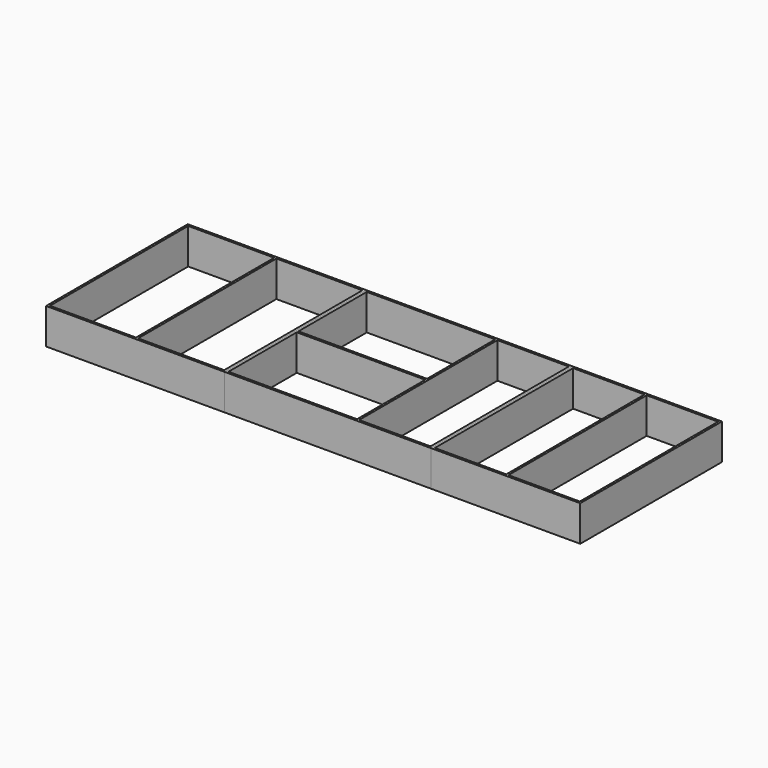
from build123d import *

# Parameters (mm, degrees)
F0_W     = 100
F0_H     = 242
F1_DEPTH = 50
F0_W_2   = 180
F0_H_2   = 119.5
F2_DEPTH = 50
F0_W_3   = 120.5
F3_DEPTH = 50


with BuildPart() as f1:
    # F0 (on Top) → F1 (new body)
    with BuildSketch(Plane.XY):
        Polygon((539, 3), (539, 0), (748, 0), (748, 248), (539, 248), (539, 245), align=None)
        with Locations((592, 124)):
            Rectangle(F0_W, F0_H, mode=Mode.SUBTRACT)
        with Locations((695, 124)):
            Rectangle(F0_W, F0_H, mode=Mode.SUBTRACT)
    extrude(amount=F1_DEPTH)


with BuildPart() as f2:
    # F0 (on Top) → F2 (new body)
    with BuildSketch(Plane.XY):
        Polygon((250, 3), (250, 0), (539, 0), (539, 3), (539, 245), (539, 248), (250, 248), (250, 245), align=None)
        with Locations((343, 62.75)):
            Rectangle(F0_W_2, F0_H_2, mode=Mode.SUBTRACT)
        with Locations((343, 185.25)):
            Rectangle(F0_W_2, F0_H_2, mode=Mode.SUBTRACT)
        with Locations((486, 124)):
            Rectangle(F0_W, F0_H, mode=Mode.SUBTRACT)
    extrude(amount=F2_DEPTH)


with BuildPart() as f3:
    # F0 (on Top) → F3 (new body)
    with BuildSketch(Plane.XY):
        Polygon((0, 248), (0, 0), (250, 0), (250, 3), (250, 245), (250, 248), align=None)
        with Locations((63.25, 124)):
            Rectangle(F0_W_3, F0_H, mode=Mode.SUBTRACT)
        with Locations((186.75, 124)):
            Rectangle(F0_W_3, F0_H, mode=Mode.SUBTRACT)
    extrude(amount=F3_DEPTH)


solid = Compound([f1.part, f2.part, f3.part])
